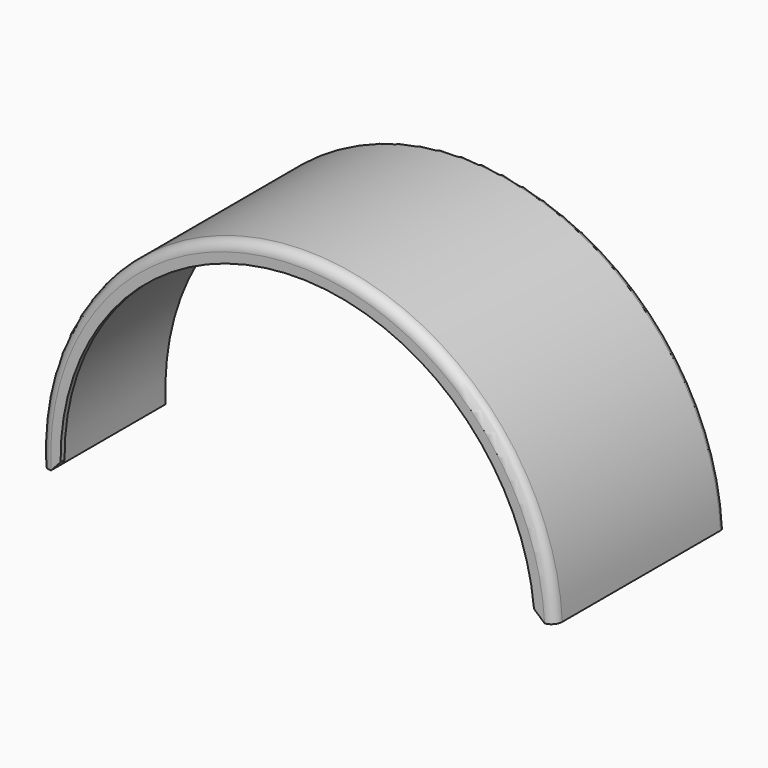
from build123d import *

# Parameters (mm, degrees)
BOX331_W                = 59
BOX331_H                = 20
BOX331_DEPTH            = 32
BOX331_PLACEMENT_ANGLE  = 3
CYLINDER467_R           = 1.6
CYLINDER467_DEPTH       = 9
CYLINDER469_R           = 1.6
CYLINDER469_DEPTH       = 9
BOX332_W                = 128
BOX332_H                = 3
BOX332_DEPTH            = 35
BOX332_PLACEMENT_ANGLE  = 3
CYLINDER475_W           = 52
CYLINDER475_H           = 3
CYLINDER475_ANGLE       = 180
CYLINDER475_ROLL_ANGLE  = 90
CYLINDER475_PITCH_ANGLE = -3
CYLINDER474_W           = 48
CYLINDER474_H           = 2
CYLINDER474_ANGLE       = 180
CYLINDER473_W           = 50
CYLINDER473_H           = 42
CYLINDER473_ANGLE       = 180
CYLINDER472_W           = 52
CYLINDER472_H           = 43
CYLINDER472_ANGLE       = 180
CUT332_PLACEMENT_ANGLE  = 3
FILLET118_R             = 2
FILLET119_R             = 1
CHAMFER046_SIZE         = 1.99
CHAMFER047_SIZE         = 1.99


with BuildPart() as cube402:
    # Box331 → Box331 (new body)
    with BuildSketch(Plane.XY):
        with Locations((29.5, 10)):
            Rectangle(BOX331_W, BOX331_H)
    extrude(amount=BOX331_DEPTH)


with BuildPart() as cube402_1:
    # Box331 placement: moved
    add(cube402.part.moved(Location((473, -33, -34))).rotate(Axis((473, -33, -34), (0, -1, 0)), BOX331_PLACEMENT_ANGLE))


with BuildPart() as cylinder467:
    # Cylinder467 → Cylinder467 (new body)
    with BuildSketch(Plane(origin=(546, -17, 10), x_dir=(1, 0, 0), z_dir=(0, -1, 0))):
        Circle(CYLINDER467_R)
    extrude(amount=CYLINDER467_DEPTH)


with BuildPart() as fusion428:
    # Cylinder469 → Cylinder469 (new body)
    with BuildSketch(Plane(origin=(564, -17, 10), x_dir=(1, 0, 0), z_dir=(0, -1, 0))):
        Circle(CYLINDER469_R)
    extrude(amount=CYLINDER469_DEPTH)

    # Fusion428: union Cylinder467
    add(cylinder467.part)


with BuildPart() as cube403:
    # Box332 → Box332 (new body)
    with BuildSketch(Plane.XY):
        with Locations((64, 1.5)):
            Rectangle(BOX332_W, BOX332_H)
    extrude(amount=BOX332_DEPTH)


with BuildPart() as cube403_1:
    # Box332 placement: moved
    add(cube403.part.moved(Location((382, -9, -40.8))).rotate(Axis((382, -9, -40.8), (0, -1, 0)), BOX332_PLACEMENT_ANGLE))


with BuildPart() as cut333:
    # Cylinder475 → Cylinder475 (revolve)
    with BuildSketch(Plane.XZ):
        with Locations((26, 1.5)):
            Rectangle(CYLINDER475_W, CYLINDER475_H)
    revolve(axis=Axis((0, 0, 0), (0, 0, 1)), revolution_arc=CYLINDER475_ANGLE)


with BuildPart() as cut333_1:
    # Cylinder475 roll: moved
    add(cut333.part.rotate(Axis((0, 0, 0), (1, 0, 0)), CYLINDER475_ROLL_ANGLE))


with BuildPart() as cut333_2:
    # Cylinder475 pitch: moved
    add(cut333_1.part.rotate(Axis((0, 0, 0), (0, 1, 0)), CYLINDER475_PITCH_ANGLE))


with BuildPart() as cut333_3:
    # Cylinder475 placement: moved
    add(cut333_2.part.moved(Location((448.581401, -6, -35.39126))))

    # Cut333: cut Cube403
    add(cube403_1.part, mode=Mode.SUBTRACT)


with BuildPart() as cut333_4:
    # Cut333 placement: moved
    add(cut333_3.part.moved(Location((105.48, -13, 6.5))))


with BuildPart() as cylinder474:
    # Cylinder474 → Cylinder474 (revolve)
    with BuildSketch(Plane(origin=(554, -60, -28), x_dir=(1, 0, 0), z_dir=(0, 0, -1))):
        with Locations((24, 1)):
            Rectangle(CYLINDER474_W, CYLINDER474_H)
    revolve(axis=Axis((554, -60, -28), (0, -1, 0)), revolution_arc=CYLINDER474_ANGLE)


with BuildPart() as fusion429:
    # Cylinder473 → Cylinder473 (revolve)
    with BuildSketch(Plane(origin=(554, -19, -28), x_dir=(1, 0, 0), z_dir=(0, 0, -1))):
        with Locations((25, 21)):
            Rectangle(CYLINDER473_W, CYLINDER473_H)
    revolve(axis=Axis((554, -19, -28), (0, -1, 0)), revolution_arc=CYLINDER473_ANGLE)

    # Fusion429: union Cylinder474
    add(cylinder474.part)


with BuildPart() as fender_rear_left:
    # Cylinder472 → Cylinder472 (revolve)
    with BuildSketch(Plane(origin=(554, -19, -28), x_dir=(1, 0, 0), z_dir=(0, 0, -1))):
        with Locations((26, 21.5)):
            Rectangle(CYLINDER472_W, CYLINDER472_H)
    revolve(axis=Axis((554, -19, -28), (0, -1, 0)), revolution_arc=CYLINDER472_ANGLE)

    # Cut332: cut Fusion429
    add(fusion429.part, mode=Mode.SUBTRACT)


with BuildPart() as fender_rear_left_1:
    # Cut332 placement: moved
    add(fender_rear_left.part.moved(Location((-0.706169, 0, -29.032493))).rotate(Axis((-0.706169, 0, -29.032493), (0, -1, 0)), CUT332_PLACEMENT_ANGLE))

    # Fusion430: union Cut333
    add(cut333_4.part)

    # Cut336: cut Fusion428
    add(fusion428.part, mode=Mode.SUBTRACT)

    # Cut338: cut Cube402
    add(cube402_1.part, mode=Mode.SUBTRACT)

    # Fillet118
    fillet118_edges = [fender_rear_left_1.edges().sort_by_distance(p)[0] for p in [
        (551.27853, -62, 23.928736),
    ]]
    fillet(fillet118_edges, radius=FILLET118_R)

    # Fillet119
    fillet119_edges = [fender_rear_left_1.edges().sort_by_distance(p)[0] for p in [
        (567.269532, -19, 22.27842),
    ]]
    fillet(fillet119_edges, radius=FILLET119_R)

    # Chamfer046
    chamfer046_edges = [fender_rear_left_1.edges().sort_by_distance(p)[0] for p in [
        (551.383202, -61, 21.931477),
    ]]
    chamfer(chamfer046_edges, length=CHAMFER046_SIZE)

    # Chamfer047
    chamfer047_edges = [fender_rear_left_1.edges().sort_by_distance(p)[0] for p in [
        (601.934218, -61.5, -25.487874),
        (506.065782, -61.5, -30.512126),
    ]]
    chamfer(chamfer047_edges, length=CHAMFER047_SIZE)


solid = fender_rear_left_1.part
